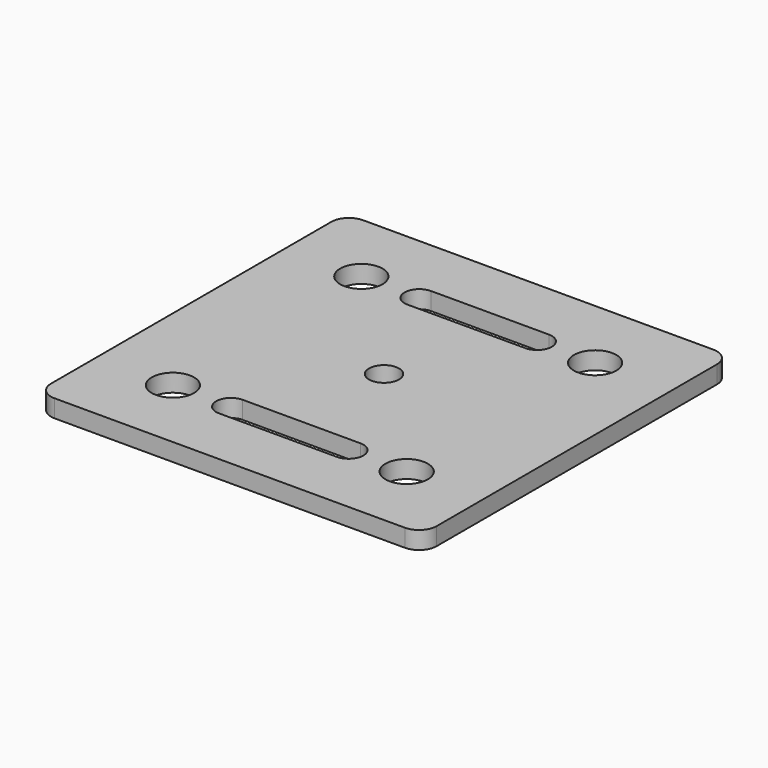
from build123d import *

# Parameters (mm, degrees)
SKETCH_R   = 2.55
SKETCH_R_2 = 3.6
PAD_DEPTH  = 3


with BuildPart() as part:
    # Sketch → Pad (new body)
    with BuildSketch(Plane.XY):
        with BuildLine():
            ThreePointArc((-29.75, 32.75), (-31.87132, 31.87132), (-32.75, 29.75))
            Line((-32.75, -29.75), (-32.75, 29.75))
            ThreePointArc((-32.75, -29.75), (-31.87132, -31.87132), (-29.75, -32.75))
            Line((29.75, -32.75), (-29.75, -32.75))
            ThreePointArc((29.75, -32.75), (31.87132, -31.87132), (32.75, -29.75))
            Line((32.75, 29.75), (32.75, -29.75))
            ThreePointArc((32.75, 29.75), (31.87132, 31.87132), (29.75, 32.75))
            Line((-29.75, 32.75), (29.75, 32.75))
        make_face()
        Circle(SKETCH_R, mode=Mode.SUBTRACT)
        with Locations((-19.85, -20)):
            Circle(SKETCH_R_2, mode=Mode.SUBTRACT)
        with Locations((19.85, -20)):
            Circle(SKETCH_R_2, mode=Mode.SUBTRACT)
        with Locations((19.85, 20)):
            Circle(SKETCH_R_2, mode=Mode.SUBTRACT)
        with Locations((-19.85, 20)):
            Circle(SKETCH_R_2, mode=Mode.SUBTRACT)
        with BuildLine():
            ThreePointArc((-10, -17.5), (-12.5, -20), (-10, -22.5))
            Line((-10, -22.5), (10, -22.5))
            ThreePointArc((10, -22.5), (12.5, -20), (10, -17.5))
            Line((10, -17.5), (-10, -17.5))
        make_face(mode=Mode.SUBTRACT)
        with BuildLine():
            ThreePointArc((-10, 22.5), (-12.5, 20), (-10, 17.5))
            Line((-10, 17.5), (10, 17.5))
            ThreePointArc((10, 17.5), (12.5, 20), (10, 22.5))
            Line((10, 22.5), (-10, 22.5))
        make_face(mode=Mode.SUBTRACT)
    extrude(amount=PAD_DEPTH)


solid = part.part
